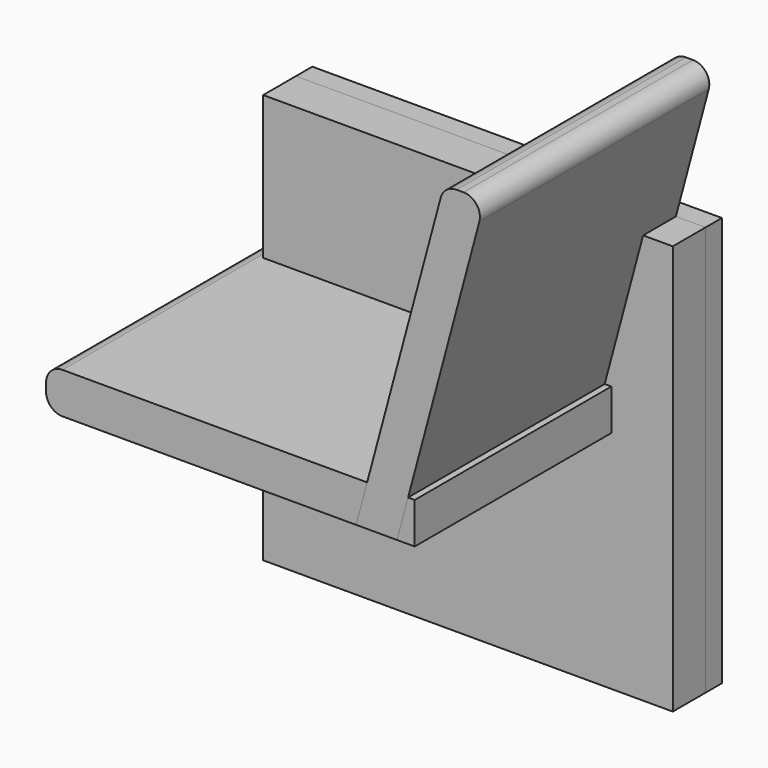
from build123d import *

# Parameters (mm, degrees)
SKETCH_W        = 50
SKETCH_H        = 50
PAD_DEPTH       = 2.5
POCKET_DEPTH    = 2.5
PAD001_DEPTH    = 35
FILLET_R        = 2
PAD002_DEPTH    = 35
FILLET001_R     = 2
SKETCH004_W     = 50
SKETCH004_H     = 50
PAD003_DEPTH    = 5
POCKET001_DEPTH = 2.5


with BuildPart() as right_leg:
    # Sketch → Pad (new body, symmetric)
    with BuildSketch(Plane.XZ):
        Rectangle(SKETCH_W, SKETCH_H)
    extrude(amount=PAD_DEPTH, both=True)

    # Sketch001 (on Face6 of Pad) → Pocket (cut)
    with BuildSketch(Plane.XZ.offset(2.5)):
        Polygon((-25, 7.5), (-25, 12.5), (8.75, 12.5), (12.099365, 25), (17.099365, 25), (13.75, 12.5), (20, 12.5), (20, 7.5), align=None)
    extrude(amount=-POCKET_DEPTH, mode=Mode.SUBTRACT)


with BuildPart() as seat:
    # Sketch002 → Pad001 (new body)
    with BuildSketch(Plane.XZ):
        Polygon((17.499976, 2.5), (17.499976, 7.5), (-27.500024, 7.5), (-27.5, 2.5), align=None)
    extrude(amount=PAD001_DEPTH)

    # Fillet
    fillet_edges = [seat.edges().sort_by_distance(p)[0] for p in [
        (-27.500024, -17.5, 7.5),
        (-27.5, -17.5, 2.5),
    ]]
    fillet(fillet_edges, radius=FILLET_R)


with BuildPart() as back_rest:
    # Sketch003 → Pad002 (new body)
    with BuildSketch(Plane.XZ):
        Polygon((21.06706, 42.5), (10.349092, 2.5), (15.349092, 2.5), (26.06706, 42.5), align=None)
    extrude(amount=PAD002_DEPTH)

    # Fillet001
    fillet001_edges = [back_rest.edges().sort_by_distance(p)[0] for p in [
        (21.06706, -17.5, 42.5),
        (26.06706, -17.5, 42.5),
    ]]
    fillet(fillet001_edges, radius=FILLET001_R)


with BuildPart() as left_leg:
    # Sketch004 → Pad003 (new body)
    with BuildSketch(Plane.XZ):
        Rectangle(SKETCH004_W, SKETCH004_H)
    extrude(amount=PAD003_DEPTH)

    # Sketch005 (on Face5 of Pad003) → Pocket001 (cut)
    with BuildSketch(Plane(origin=(0, 0, 0), x_dir=(1, 0, 0), z_dir=(0, 1, 0))):
        Polygon((-25, -12.5), (-25, -7.5), (20, -7.5), (20, -12.5), (13.75, -12.5), (17.099365, -25), (12.099365, -25), (8.75, -12.5), align=None)
    extrude(amount=-POCKET001_DEPTH, mode=Mode.SUBTRACT)


solid = Compound([right_leg.part, seat.part, back_rest.part, left_leg.part])
